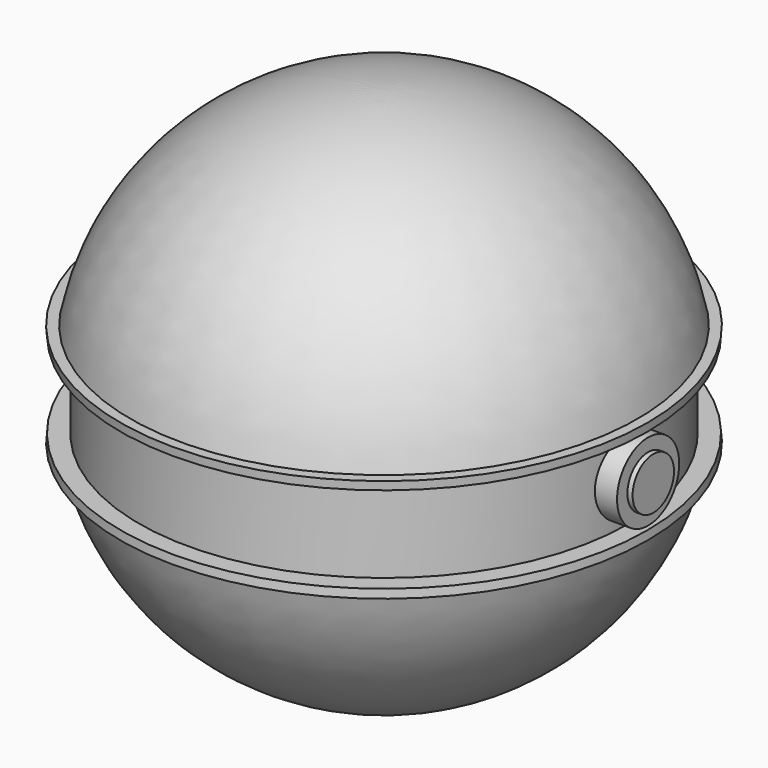
from build123d import *

# Parameters (mm, degrees)
F1_R     = 6.35
F2_DEPTH = 66.04
F4_R     = 9.525
F5_DEPTH = 64.77


with BuildPart() as f2:
    # F1 (on Right) → F2 (new body)
    with BuildSketch(Plane.YZ):
        Circle(F1_R)
    extrude(amount=F2_DEPTH)

    # F0 (on Front) → F3 (revolve)
    with BuildSketch(Plane.XZ):
        with BuildLine():
            Line((0, 12.7), (0, 63.5))
            ThreePointArc((0, 63.5), (-40.160926, 49.186888), (-62.217039, 12.7))
            Line((-62.217039, 12.7), (-60.090102, 12.7))
            Line((-60.090102, 12.7), (0, 12.7))
        make_face()
        Polygon((-60.090102, 12.7), (-62.217039, 12.7), (-64.71397, 12.7), (-64.548267, 10.621531), (-60.090102, 10.621531), align=None)
        Polygon((0, -12.7), (0, 12.7), (-60.090102, 12.7), (-60.090102, 10.621531), (-60.090102, -10.621531), (-60.090102, -12.7), align=None)
        with BuildLine():
            Line((0, -63.5), (0, -12.7))
            Line((0, -12.7), (-60.090102, -12.7))
            Line((-60.090102, -12.7), (-62.217039, -12.7))
            ThreePointArc((-62.217039, -12.7), (-40.160926, -49.186888), (0, -63.5))
        make_face()
        Polygon((-62.217039, -12.7), (-60.090102, -12.7), (-60.090102, -10.621531), (-64.548267, -10.621531), (-64.71397, -12.7), align=None)
    revolve(axis=Axis((0, 0, 0), (0, 0, -1)))

    # F4 (on Right) → F5 (join)
    with BuildSketch(Plane.YZ):
        Circle(F4_R)
    extrude(amount=F5_DEPTH)


solid = f2.part
